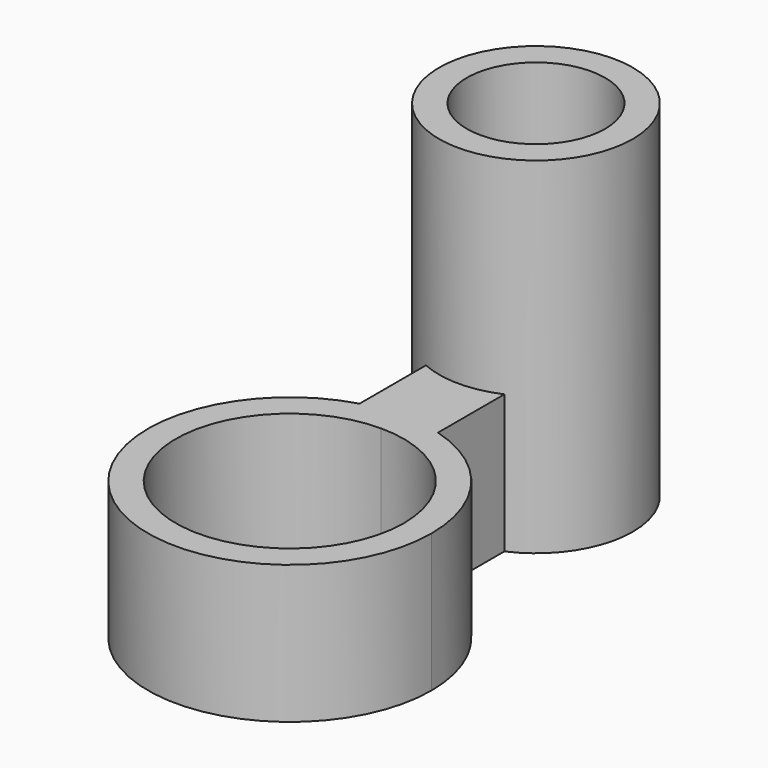
from build123d import *

# Parameters (mm, degrees)
F1_DEPTH = 10
F2_DEPTH = 25


with BuildPart() as f1:
    # F0 (on Top) → F1 (new body)
    with BuildSketch(Plane.XY):
        with BuildLine():
            Line((2.8350751381, 17.25), (2.8350751381, 15.84981649))
            ThreePointArc((2.8350751381, 15.84981649), (5.8670915268, 18.4319851995), (7, 22.25))
            ThreePointArc((7, 22.25), (-3.8180148005, 28.1170915268), (-2.8350751381, 15.84981649))
            Line((-2.8350751381, 15.84981649), (-2.8350751381, 17.25))
            Line((-2.8350751381, 17.25), (0, 17.25))
            Line((0, 17.25), (2.8350751381, 17.25))
        make_face()
        with BuildLine():
            ThreePointArc((5, 22.25), (3.5355339059, 18.7144660941), (0, 17.25))
            ThreePointArc((0, 17.25), (-3.5355339059, 25.7855339059), (5, 22.25))
        make_face(mode=Mode.SUBTRACT)
        with BuildLine():
            ThreePointArc((-2.8350751381, 15.84981649), (0, 15.25), (2.8350751381, 15.84981649))
            Line((2.8350751381, 15.84981649), (2.8350751381, 17.25))
            Line((2.8350751381, 17.25), (0, 17.25))
            Line((0, 17.25), (-2.8350751381, 17.25))
            Line((-2.8350751381, 17.25), (-2.8350751381, 15.84981649))
        make_face()
        with BuildLine():
            ThreePointArc((-2.8350751381, 9.8501192359), (0, 10.25), (2.8350751381, 9.8501192359))
            Line((2.8350751381, 9.8501192359), (2.8350751381, 15.84981649))
            ThreePointArc((2.8350751381, 15.84981649), (0, 15.25), (-2.8350751381, 15.84981649))
            Line((-2.8350751381, 15.84981649), (-2.8350751381, 9.8501192359))
        make_face()
        with BuildLine():
            Line((-2.8350751381, 8.25), (0, 8.25))
            Line((0, 8.25), (2.8350751381, 8.25))
            Line((2.8350751381, 8.25), (2.8350751381, 9.8501192359))
            ThreePointArc((2.8350751381, 9.8501192359), (0, 10.25), (-2.8350751381, 9.8501192359))
            Line((-2.8350751381, 9.8501192359), (-2.8350751381, 8.25))
        make_face()
        with BuildLine():
            Line((2.8350751381, 8.25), (0, 8.25))
            Line((0, 8.25), (-2.8350751381, 8.25))
            Line((-2.8350751381, 8.25), (-2.8350751381, 9.8501192359))
            ThreePointArc((-2.8350751381, 9.8501192359), (-6.16453485, -8.1890787078), (10.25, 0))
            ThreePointArc((10.25, 0), (8.1890787078, 6.16453485), (2.8350751381, 9.8501192359))
            Line((2.8350751381, 9.8501192359), (2.8350751381, 8.25))
        make_face()
        with BuildLine():
            ThreePointArc((0, 8.25), (5.8336309448, 5.8336309448), (8.25, 0))
            ThreePointArc((8.25, 0), (-5.8336309448, -5.8336309448), (0, 8.25))
        make_face(mode=Mode.SUBTRACT)
    extrude(amount=F1_DEPTH)

    # F0 (on Top) → F2 (join)
    with BuildSketch(Plane.XY):
        with BuildLine():
            Line((2.8350751381, 17.25), (2.8350751381, 15.84981649))
            ThreePointArc((2.8350751381, 15.84981649), (5.8670915268, 18.4319851995), (7, 22.25))
            ThreePointArc((7, 22.25), (-3.8180148005, 28.1170915268), (-2.8350751381, 15.84981649))
            Line((-2.8350751381, 15.84981649), (-2.8350751381, 17.25))
            Line((-2.8350751381, 17.25), (0, 17.25))
            Line((0, 17.25), (2.8350751381, 17.25))
        make_face()
        with BuildLine():
            ThreePointArc((5, 22.25), (3.5355339059, 18.7144660941), (0, 17.25))
            ThreePointArc((0, 17.25), (-3.5355339059, 25.7855339059), (5, 22.25))
        make_face(mode=Mode.SUBTRACT)
        with BuildLine():
            ThreePointArc((-2.8350751381, 15.84981649), (0, 15.25), (2.8350751381, 15.84981649))
            Line((2.8350751381, 15.84981649), (2.8350751381, 17.25))
            Line((2.8350751381, 17.25), (0, 17.25))
            Line((0, 17.25), (-2.8350751381, 17.25))
            Line((-2.8350751381, 17.25), (-2.8350751381, 15.84981649))
        make_face()
    extrude(amount=F2_DEPTH)


solid = f1.part
